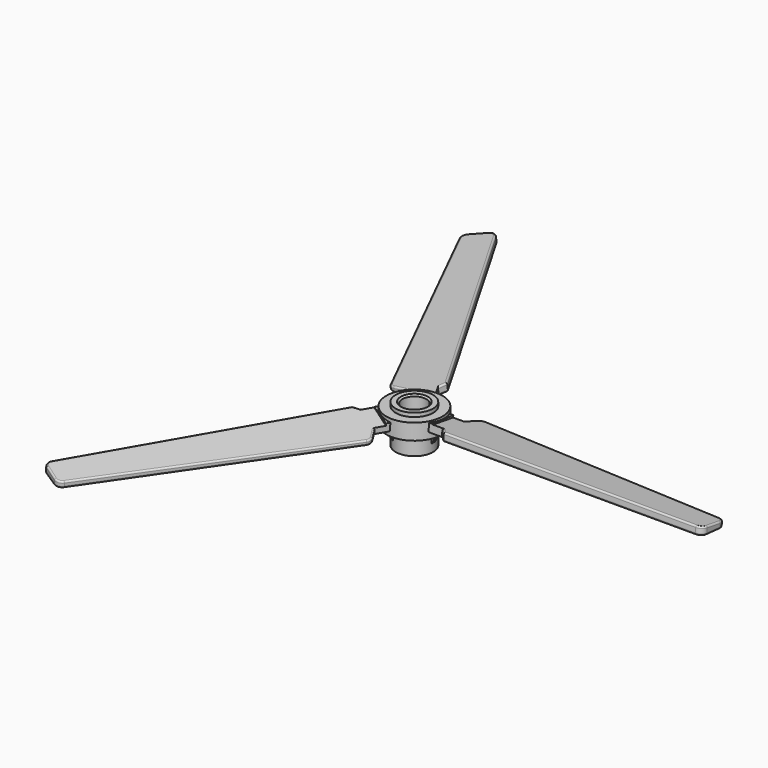
from build123d import *

# Parameters (mm, degrees)
CHAMFER_SIZE          = 0.5
PAD_DEPTH             = 0.65
POLARPATTERN_COUNT    = 3
PAD001_DEPTH          = 2.5
POCKET_DEPTH          = 86
POLARPATTERN001_COUNT = 3
FILLET_R              = 0.5


with BuildPart() as part:
    # Sketch → Revolution (revolve)
    with BuildSketch(Plane.XZ):
        Polygon((3.75, 0), (3.75, 12), (5.85, 12), (5.85, 10.8), (8.8, 10.8), (8.8, 5.8), (5.85, 5.8), (5.85, 0), align=None)
    revolve(axis=Axis((0, 0, 0), (0, 0, 1)))

    # Chamfer
    chamfer_edges = [part.edges().sort_by_distance(p)[0] for p in [
        (-3.75, 0, 12),
    ]]
    chamfer(chamfer_edges, length=CHAMFER_SIZE)

    # Sketch001 → Pad (new body, symmetric)
    with BuildSketch(Plane.XZ):
        Polygon((5.5, 2), (8, 6), (5.5, 6), align=None)
    pad = extrude(amount=PAD_DEPTH, both=True)

    # PolarPattern: Pad ×3 about axis
    polarpattern_axis = Axis((0, 0, 0), (0, 0, 1))
    for i in range(1, POLARPATTERN_COUNT):
        add(pad.rotate(polarpattern_axis, i * 360 / POLARPATTERN_COUNT))

    # Sketch002 (on DatumPlane) → Pad001 (join)
    with BuildSketch(Plane(origin=(0, 0, 10), x_dir=(1, 0, 0), z_dir=(0, 0.087156, 0.996195))):
        with BuildLine():
            Line((7, 4), (7, -4))
            Line((7, -4), (12, -4))
            Line((12, -4), (14, -6))
            Line((14, -6), (93, -6))
            ThreePointArc((93, -6), (94.414214, -5.414214), (95, -4))
            Line((95, -4), (95, 1.131983))
            ThreePointArc((95, 1.131983), (94.461618, 2.497147), (93.136328, 3.127332))
            Line((93.136328, 3.127332), (15.767604, 8.413393))
            ThreePointArc((15.767604, 8.413393), (14.676394, 8.175372), (13.882962, 7.389331))
            Line((13.882962, 7.389331), (12, 4))
            Line((12, 4), (7, 4))
        make_face()
    pad001 = extrude(amount=-PAD001_DEPTH)

    # Sketch003 (on Face27 of Pad001) → Pocket (cut)
    with BuildSketch(Plane(origin=(95, 0, 0), x_dir=(0, 0, 1), z_dir=(1, 0, 0))):
        Polygon((10.838588, 7.977168), (7.783295, -11.381378), (10.838588, -11.381378), align=None)
    pocket = extrude(amount=-POCKET_DEPTH, mode=Mode.SUBTRACT)

    # PolarPattern001: Pad001, Pocket ×3 about axis
    polarpattern001_axis = Axis((0, 0, 0), (0, 0, 1))
    for i in range(1, POLARPATTERN001_COUNT):
        add(pad001.rotate(polarpattern001_axis, i * 360 / POLARPATTERN001_COUNT))
        add(pocket.rotate(polarpattern001_axis, i * 360 / POLARPATTERN001_COUNT), mode=Mode.SUBTRACT)

    # Fillet
    fillet_edges = [part.edges().sort_by_distance(p)[0] for p in [
        (-22.309357, -49.995402, 8.683561),
        (-22.436416, -49.922044, 7.006593),
        (54.451966, 5.530515, 7.006593),
        (54.451966, 5.677231, 8.683561),
        (-32.01555, 44.391528, 7.006593),
        (-32.142609, 44.318171, 8.683561),
        (-11.002347, -8.658899, 7.945292),
        (-10.818886, -8.76482, 10.366663),
        (-2.181114, 13.75184, 10.366663),
        (-1.997653, 13.857762, 7.945292),
        (13, -4.98702, 10.366663),
        (13, -5.198863, 7.945292),
    ]]
    fillet(fillet_edges, radius=FILLET_R)


solid = part.part
